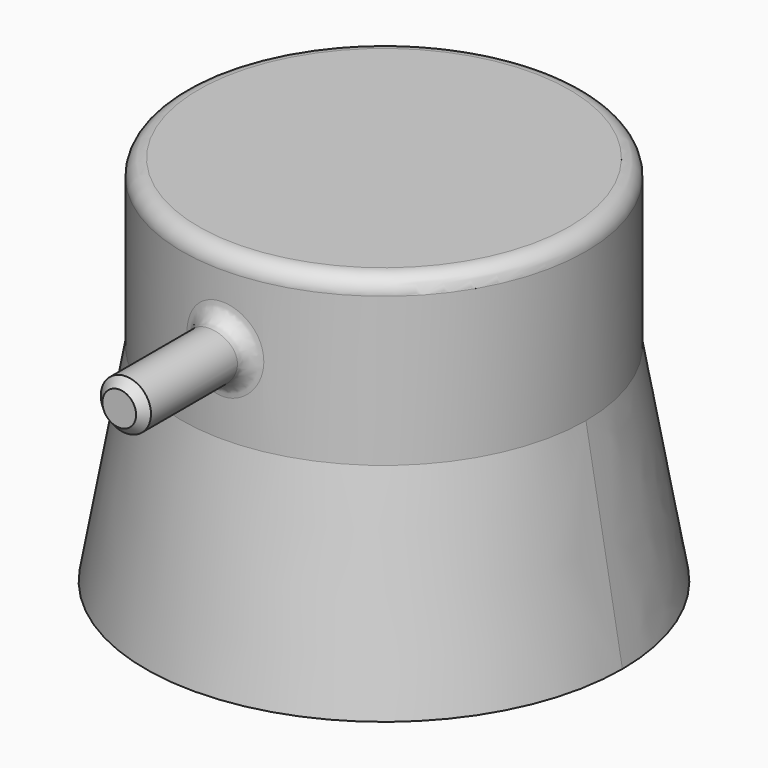
from build123d import *

# Parameters (mm, degrees)
F0_R      = 24.4192579829
F1_DEPTH  = 20
F5_DEPTH  = 0.8
F6_R      = 3.0326267801
F7_DEPTH  = 40
F8_R      = 2
F9_SIZE   = 1
F10_DEPTH = 25
F10_TAPER = -10


with BuildPart() as f1:
    # F0 (on Top) → F1 (new body)
    with BuildSketch(Plane.XY):
        Circle(F0_R)
    extrude(amount=F1_DEPTH)

    # F4 (on offset) → F5 (join)
    with BuildSketch(Plane.XY.offset(2.5)):
        with BuildLine():
            ThreePointArc((4.3520725579, 24.0283088229), (8.3888871456, 22.9330925279), (12.179572853, 21.1650222196))
            ThreePointArc((12.179572853, 21.1650222196), (9.2528939627, 25.2950683106), (4.3520725579, 24.0283088229))
        make_face()
    extrude(amount=F5_DEPTH)

    # F6 (on Front) → F7 (join)
    with BuildSketch(Plane.XZ):
        with Locations((0, 9.6028381959)):
            Circle(F6_R)
    extrude(amount=F7_DEPTH)

    # F8
    f8_edges = [f1.edges().sort_by_distance(p)[0] for p in [
        (-24.419258, 0, 20),
        (-3.032627, -24.230215, 9.602838),
    ]]
    fillet(f8_edges, radius=F8_R)

    # F9
    f9_edges = [f1.edges().sort_by_distance(p)[0] for p in [
        (-3.032627, -40, 9.602838),
    ]]
    chamfer(f9_edges, length=F9_SIZE)

    # F2 (on Top) → F10 (join)
    with BuildSketch(Plane.XY):
        with BuildLine():
            ThreePointArc((4.3520725579, 24.0283088229), (-18.7426591361, -15.6528875592), (24.4192579829, 0))
            ThreePointArc((24.4192579829, 0), (21.1390195143, 12.2246478235), (12.179572853, 21.1650222196))
            ThreePointArc((12.179572853, 21.1650222196), (8.3888871456, 22.9330925279), (4.3520725579, 24.0283088229))
        make_face()
    extrude(amount=-F10_DEPTH, taper=F10_TAPER)


solid = f1.part
